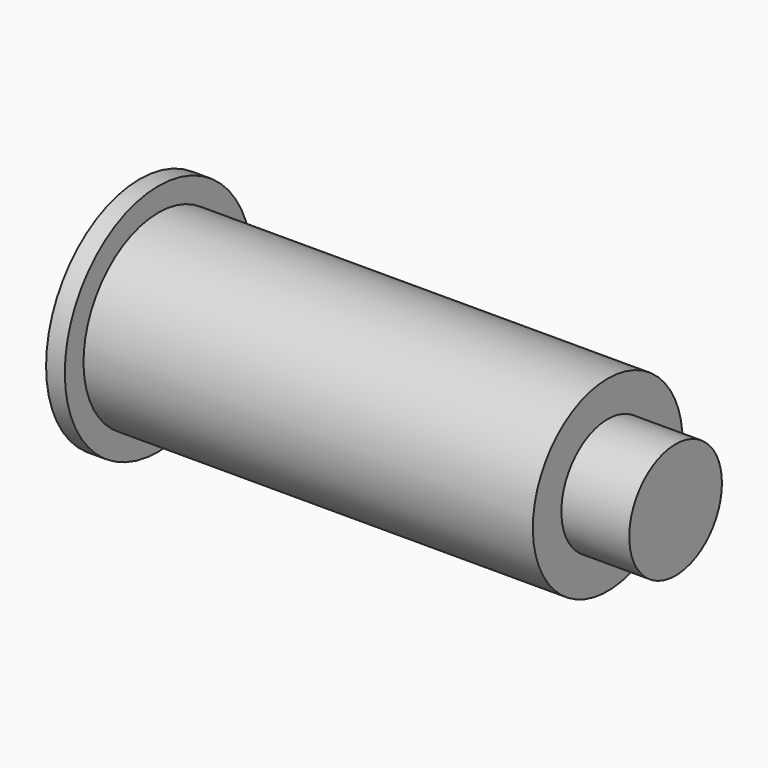
from build123d import *

# Parameters (mm, degrees)
F2_R     = 12.375
F3_DEPTH = 14.5


with BuildPart() as f1:
    # F0 (on Front) → F1 (revolve)
    with BuildSketch(Plane.XZ):
        Polygon((-100, 0), (0, 0), (0, 20), (-96, 20), (-96, 25), (-100, 25), (-100, 20), align=None)
    revolve(axis=Axis((-50, 0, 0), (-1, 0, 0)))

    # F2 (on face) → F3 (join)
    with BuildSketch(Plane.YZ):
        Circle(F2_R)
    extrude(amount=F3_DEPTH)


solid = f1.part
